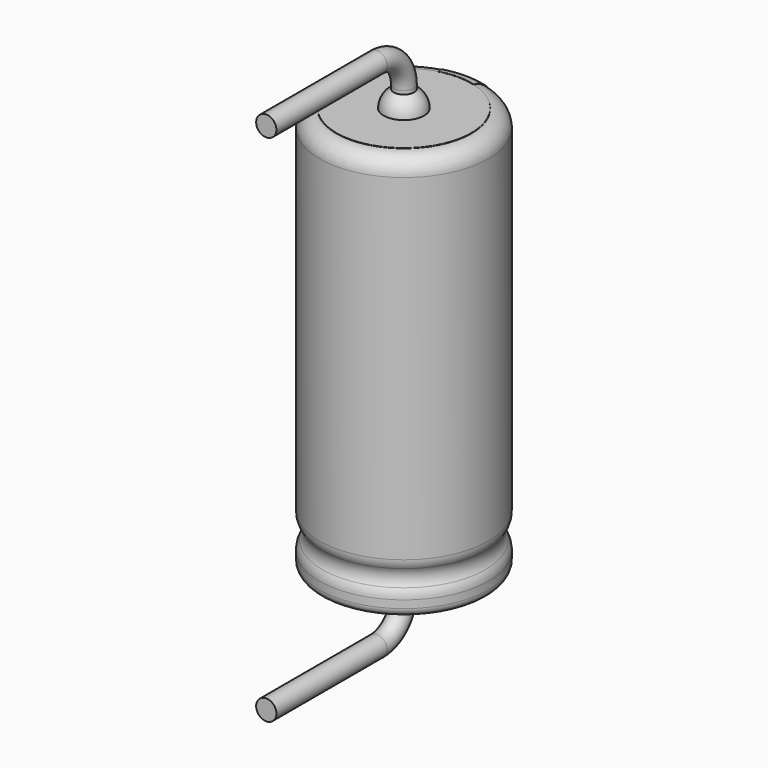
from build123d import *

# Parameters (mm, degrees)
SKETCH011_R             = 0.3
BODY007_PLACEMENT_ANGLE = 180
REVOLUTION001_ANGLE     = -30
POCKET_DEPTH            = 2.511
LINEARPATTERN_COUNT     = 3
LINEARPATTERN_PITCH     = 3.5
SKETCH012_R             = 2
PAD_DEPTH               = 0.01
BODY008_PLACEMENT_ANGLE = 90


with BuildPart() as lead:
    # AdditivePipe: sweep along a path in Sketch010
    with BuildLine(Plane(origin=(0, 0, 0), x_dir=(0, -1, 0), z_dir=(-1, 0, 0))) as additivepipe_path:
        Line((0, 12), (0, 12.62))
        ThreePointArc((0, 12.62), (0.292893, 13.327107), (1, 13.62))
        Line((1, 13.62), (5.1, 13.62))
    # Sketch011 → AdditivePipe (sweep)
    with BuildSketch(Plane.XY.offset(12)):
        Circle(SKETCH011_R)
    sweep(path=additivepipe_path.line)


with BuildPart() as obj1:
    # Body007 base: copy of Lead
    add(lead.part)


with BuildPart() as obj1_1:
    # Body007 placement: moved
    add(obj1.part.moved(Location((0, 0, 12))).rotate(Axis((0, 0, 12), (0, 1, 0)), BODY007_PLACEMENT_ANGLE))


with BuildPart() as polaritymarking:
    # Sketch005 → Revolution001 (revolve)
    with BuildSketch(Plane(origin=(0, 0, 0), x_dir=(-0.258819, 0.965926, 0), z_dir=(0.965926, 0.258819, 0))):
        with BuildLine():
            Line((2.01, 0.043526), (2.01, 12.01))
            ThreePointArc((2.01, 12.01), (2.363553, 11.863553), (2.51, 11.51))
            Line((2.51, 11.51), (2.51, 1.523941))
            ThreePointArc((2.51, 1.523941), (2.489134, 1.381006), (2.428278, 1.25))
            ThreePointArc((2.428278, 1.25), (2.353698, 1), (2.428278, 0.75))
            ThreePointArc((2.428278, 0.75), (2.489134, 0.618994), (2.51, 0.476059))
            Line((2.51, 0.476059), (2.51, 0.043526))
            ThreePointArc((2.51, 0.043526), (2.26, -0.206474), (2.01, 0.043526))
        make_face()
    revolve(axis=Axis((0, 0, 0), (0, 0, 1)), revolution_arc=REVOLUTION001_ANGLE)

    # Sketch013 → Pocket (cut, through all)
    with BuildSketch(Plane.XZ):
        Polygon((0.375, 2), (-0.375, 2), (-0.375, 3), (0, 3.5), (0.375, 3), align=None)
    pocket = extrude(amount=-POCKET_DEPTH, mode=Mode.SUBTRACT)

    # LinearPattern: Pocket ×3
    with Locations(*[(0, 0, i * LINEARPATTERN_PITCH) for i in range(1, LINEARPATTERN_COUNT)]):
        add(pocket, mode=Mode.SUBTRACT)


with BuildPart() as housing:
    # Sketch → Revolution (revolve)
    with BuildSketch(Plane.XZ):
        with BuildLine():
            Line((0, 12), (2, 12))
            ThreePointArc((2.5, 11.5), (2.353553, 11.853553), (2, 12))
            Line((2.5, 11.5), (2.5, 1.523941))
            ThreePointArc((2.418278, 1.25), (2.479134, 1.381006), (2.5, 1.523941))
            ThreePointArc((2.418278, 1.25), (2.343698, 1), (2.418278, 0.75))
            ThreePointArc((2.5, 0.476059), (2.479134, 0.618994), (2.418278, 0.75))
            Line((2.5, 0.476059), (2.5, 0.25))
            ThreePointArc((2.25, 0), (2.426777, 0.073223), (2.5, 0.25))
            Line((0, 0), (2.25, 0))
            Line((0, 12), (0, 0))
        make_face()
    revolve(axis=Axis((0, 0, 0), (0, 0, 1)))


with BuildPart() as fusion:
    # Sphere → Sphere (revolve)
    with BuildSketch(Plane.XZ):
        with BuildLine():
            ThreePointArc((0, -0.6), (0.6, 0), (0, 0.6))
            Line((0, 0.6), (0, -0.6))
        make_face()
    revolve(axis=Axis((0, 0, 0), (0, 0, 1)))

    # Sketch012 (on ShapeBinder) → Pad (new body)
    with BuildSketch(Plane(origin=(0, 0, 0), x_dir=(0, -1, 0), z_dir=(0, 0, 1))):
        Circle(SKETCH012_R)
    extrude(amount=PAD_DEPTH)


with BuildPart() as fusion_1:
    # Body008 placement: moved
    add(fusion.part.moved(Location((0, 0, 12))).rotate(Axis((0, 0, 12), (0, 0, -1)), BODY008_PLACEMENT_ANGLE))

    # Fusion: union obj1, Lead, PolarityMarking, Housing
    add(obj1_1.part)
    add(lead.part)
    add(polaritymarking.part)
    add(housing.part)


solid = fusion_1.part
